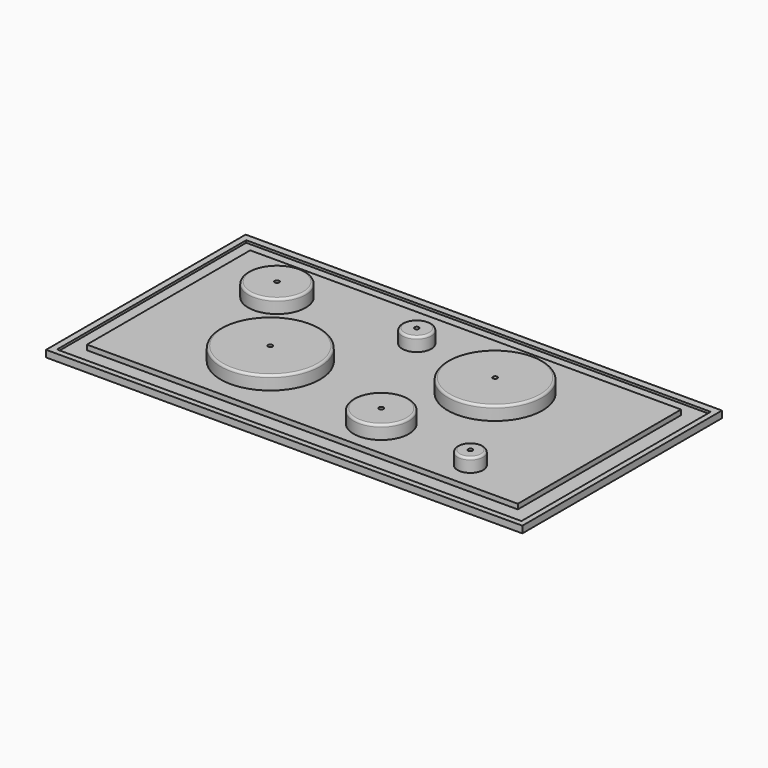
from build123d import *

# Parameters (mm, degrees)
F0_W      = 254
F0_H      = 127
F1_DEPTH  = 0.254
F3_R      = 16.082585
F3_R_2    = 26.510617
F3_R_3    = 15.501192
F3_R_4    = 27.793626
F3_R_5    = 8.156277
F3_R_6    = 7.192339
F4_DEPTH  = 12.7
F6_D      = 2.54
F8_D      = 2.54
F10_D     = 2.54
F11_R     = 1.27
F12_R     = 1.27
F13_R     = 1.27
F14_R     = 1.27
F15_R     = 1.27
F16_R     = 1.27
F18_D     = 2.54
F20_D     = 2.54
F22_D     = 2.54
F23_W     = 266.7
F23_H     = 139.7
F24_DEPTH = 2.54
F2_W      = 241.3
F2_H      = 114.3
F25_DEPTH = 5.08
F26_W     = 266.7
F26_H     = 139.7
F26_W_2   = 260.113492
F26_H_2   = 132.486194
F27_DEPTH = 1.27


with BuildPart() as f1:
    # F0 (on Top) → F1 (new body)
    with BuildSketch(Plane.XY):
        Rectangle(F0_W, F0_H)
    extrude(amount=F1_DEPTH)

    # F3 (on face) → F4 (join)
    with BuildSketch(Plane.XY.offset(0.254)):
        with Locations((-83.816141, 29.882278)):
            Circle(F3_R)
        with Locations((47.374342, 18.544829)):
            Circle(F3_R_2)
        with Locations((26.643006, -35.227075)):
            Circle(F3_R_3)
        with Locations((-48.18416, -19.354645)):
            Circle(F3_R_4)
        with Locations((-8.66505, 33.769403)):
            Circle(F3_R_5)
        with Locations((81.710614, -41.70562)):
            Circle(F3_R_6)
    extrude(amount=F4_DEPTH)

    # F6 (through all)
    with Locations(Plane.XY.offset(12.954)):
        with Locations((-83.816141, 29.882278)):
            Hole(F6_D / 2)

    # F8 (through all)
    with Locations(Plane.XY.offset(12.954)):
        with Locations((-48.18416, -19.354645)):
            Hole(F8_D / 2)

    # F10 (through all)
    with Locations(Plane.XY.offset(12.954)):
        with Locations((-8.66505, 33.769403)):
            Hole(F10_D / 2)

    # F11
    f11_edges = [f1.edges().sort_by_distance(p)[0] for p in [
        (-99.898726, 29.882278, 12.954),
    ]]
    fillet(f11_edges, radius=F11_R)

    # F12
    f12_edges = [f1.edges().sort_by_distance(p)[0] for p in [
        (-75.977786, -19.354645, 12.954),
    ]]
    fillet(f12_edges, radius=F12_R)

    # F13
    f13_edges = [f1.edges().sort_by_distance(p)[0] for p in [
        (-16.821328, 33.769403, 12.954),
    ]]
    fillet(f13_edges, radius=F13_R)

    # F14
    f14_edges = [f1.edges().sort_by_distance(p)[0] for p in [
        (20.863725, 18.544829, 12.954),
    ]]
    fillet(f14_edges, radius=F14_R)

    # F15
    f15_edges = [f1.edges().sort_by_distance(p)[0] for p in [
        (11.141814, -35.227075, 12.954),
    ]]
    fillet(f15_edges, radius=F15_R)

    # F16
    f16_edges = [f1.edges().sort_by_distance(p)[0] for p in [
        (74.518275, -41.70562, 12.954),
    ]]
    fillet(f16_edges, radius=F16_R)

    # F18 (through all)
    with Locations(Plane.XY.offset(12.954)):
        with Locations((47.374342, 18.544829)):
            Hole(F18_D / 2)

    # F20 (through all)
    with Locations(Plane.XY.offset(12.954)):
        with Locations((26.643006, -35.227075)):
            Hole(F20_D / 2)

    # F22 (through all)
    with Locations(Plane.XY.offset(12.954)):
        with Locations((81.710614, -41.70562)):
            Hole(F22_D / 2)

    # F23 (on Top) → F24 (join)
    with BuildSketch(Plane.XY):
        Rectangle(F23_W, F23_H)
    extrude(amount=F24_DEPTH)

    # F2 (on face) → F25 (join)
    with BuildSketch(Plane.XY.offset(0.254)):
        Rectangle(F2_W, F2_H)
    extrude(amount=F25_DEPTH)

    # F26 (on face) → F27 (join)
    with BuildSketch(Plane.XY.offset(2.54)):
        Rectangle(F26_W, F26_H)
        with Locations((0.242941, -0.404909)):
            Rectangle(F26_W_2, F26_H_2, mode=Mode.SUBTRACT)
    extrude(amount=F27_DEPTH)


solid = f1.part
